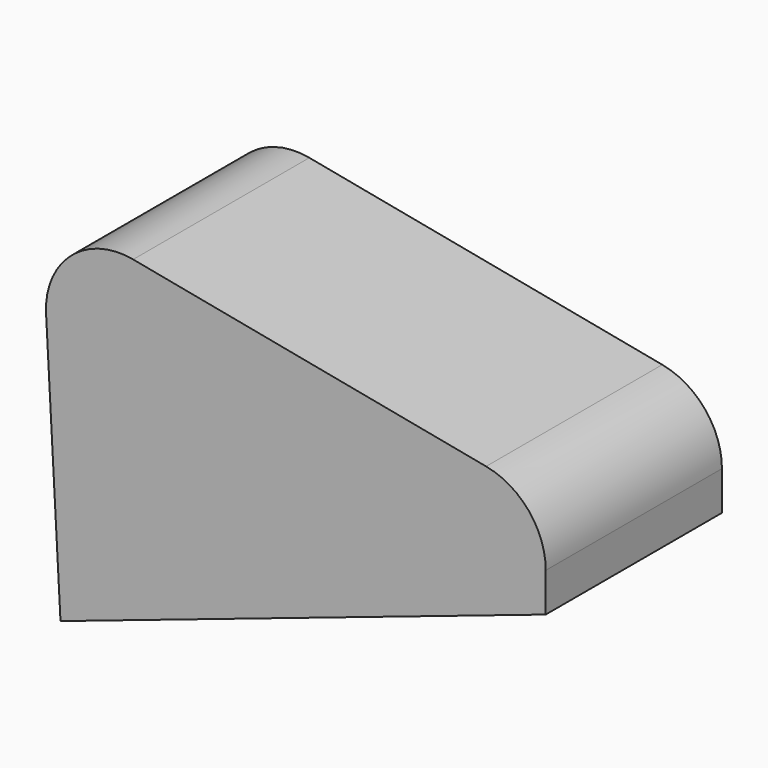
from build123d import *

# Parameters (mm, degrees)
F1_DEPTH = 228.6
F2_R     = 76.2


with BuildPart() as f1:
    # F0 (on Front) → F1 (new body)
    with BuildSketch(Plane.XZ):
        Polygon((264.477155, 88.079405), (-259.452972, 188.143295), (-239.215332, -185.128794), (264.477155, -15.357443), align=None)
    extrude(amount=F1_DEPTH)

    # F2
    f2_edges = [f1.edges().sort_by_distance(p)[0] for p in [
        (-259.452972, -114.3, 188.143295),
        (264.477155, -114.3, 88.079405),
    ]]
    fillet(f2_edges, radius=F2_R)


solid = f1.part
